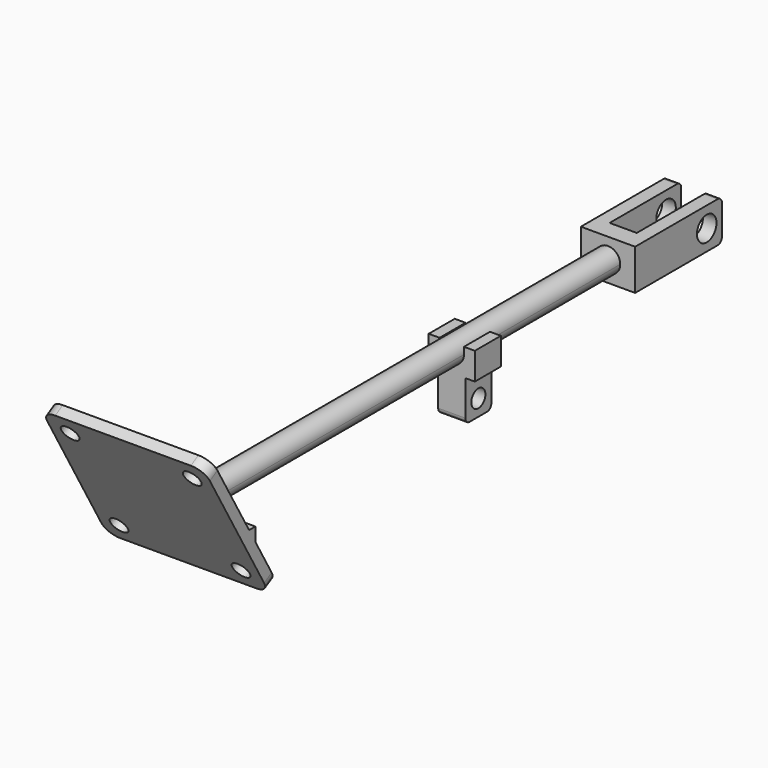
from build123d import *

# Parameters (mm, degrees)
F1_DEPTH      = 15
F3_DEPTH      = 200
F4_R          = 4.5
F5_DEPTH      = 25
F6_R          = 2
F8_DEPTH      = 30
F8_DEPTH_BACK = 30
F9_R          = 3.25
F10_DEPTH     = 25
F13_DEPTH     = 12
F14_R         = 3.25
F15_DEPTH     = 25
F16_R         = 2
F17_R         = 5


with BuildPart() as f1:
    # F0 (on Top) → F1 (new body)
    with BuildSketch(Plane.XY):
        Polygon((-10, -20), (10, -20), (10, 20), (5, 20), (5, -13), (-5, -13), (-5, 20), (-10, 20), align=None)
    extrude(amount=F1_DEPTH)

    # F2 (on face) → F3 (join)
    with BuildSketch(Plane.XZ.offset(20)):
        with BuildLine():
            ThreePointArc((0, 3), (3.1819805153, 4.3180194847), (4.5, 7.5))
            ThreePointArc((4.5, 7.5), (-3.1819805153, 10.6819805153), (0, 3))
        make_face()
    extrude(amount=F3_DEPTH)

    # F4 (on face) → F5 (cut)
    with BuildSketch(Plane(origin=(-10, 0, 0), x_dir=(0, -1, 0), z_dir=(-1, 0, 0))):
        with Locations((-13, 7.5)):
            Circle(F4_R)
    extrude(amount=-F5_DEPTH, mode=Mode.SUBTRACT)

    # F6
    f6_edges = [f1.edges().sort_by_distance(p)[0] for p in [
        (-7.5, 20, 15),
        (7.5, 20, 15),
        (7.5, 20, 0),
        (-7.5, 20, 0),
    ]]
    fillet(f6_edges, radius=F6_R)

    # F7 (on Right) → F8 (join, two sides)
    with BuildSketch(Plane.YZ) as f8_sk:
        Polygon((-210, -10.3205080757), (-220, 7), (-222.8867513459, 12), (-240, 41.6410161514), (-243.4641016151, 39.6410161514), (-213.4641016151, -12.3205080757), align=None)
        Polygon((-222.8867513459, 12), (-220, 7), (-220, 12), align=None)
    extrude(amount=F8_DEPTH)
    extrude(f8_sk.sketch, amount=-F8_DEPTH_BACK)

    # F9 (on face) → F10 (cut)
    with BuildSketch(Plane(origin=(0, -165.4330127019, -95.5127944163), x_dir=(1, 0, 0), z_dir=(0, -0.8660254038, -0.5))):
        with Locations((-22.5, 148.5621778265)):
            Circle(F9_R)
        with Locations((22.5, 148.5621778265)):
            Circle(F9_R)
        with Locations((-22.5, 103.5621778265)):
            Circle(F9_R)
        with Locations((22.5, 103.5621778265)):
            Circle(F9_R)
    extrude(amount=-F10_DEPTH, mode=Mode.SUBTRACT)

    # F12 (on offset) → F13 (join)
    with BuildSketch(Plane.XZ.offset(80)):
        with BuildLine():
            Line((-5, 0), (-5, -15))
            Line((-5, -15), (5, -15))
            Line((5, -15), (5, 0))
            Line((5, 0), (8.5, 0))
            Line((8.5, 0), (8.5, 10))
            Line((8.5, 10), (4.5, 10))
            Line((4.5, 10), (4.5, 7.5))
            ThreePointArc((4.5, 7.5), (0, 3), (-4.5, 7.5))
            Line((-4.5, 7.5), (-4.5, 10))
            Line((-4.5, 10), (-8.5, 10))
            Line((-8.5, 10), (-8.5, 0))
            Line((-8.5, 0), (-5, 0))
        make_face()
    extrude(amount=F13_DEPTH)

    # F14 (on face) → F15 (cut)
    with BuildSketch(Plane(origin=(-5, 0, 0), x_dir=(0, -1, 0), z_dir=(-1, 0, 0))):
        with Locations((86, -9)):
            Circle(F14_R)
    extrude(amount=-F15_DEPTH, mode=Mode.SUBTRACT)

    # F16
    f16_edges = [f1.edges().sort_by_distance(p)[0] for p in [
        (0, -80, -15),
        (0, -92, -15),
    ]]
    fillet(f16_edges, radius=F16_R)

    # F17
    f17_edges = [f1.edges().sort_by_distance(p)[0] for p in [
        (-30, -241.732051, 40.641016),
        (30, -241.732051, 40.641016),
        (-30, -211.732051, -11.320508),
        (30, -211.732051, -11.320508),
    ]]
    fillet(f17_edges, radius=F17_R)


solid = f1.part
